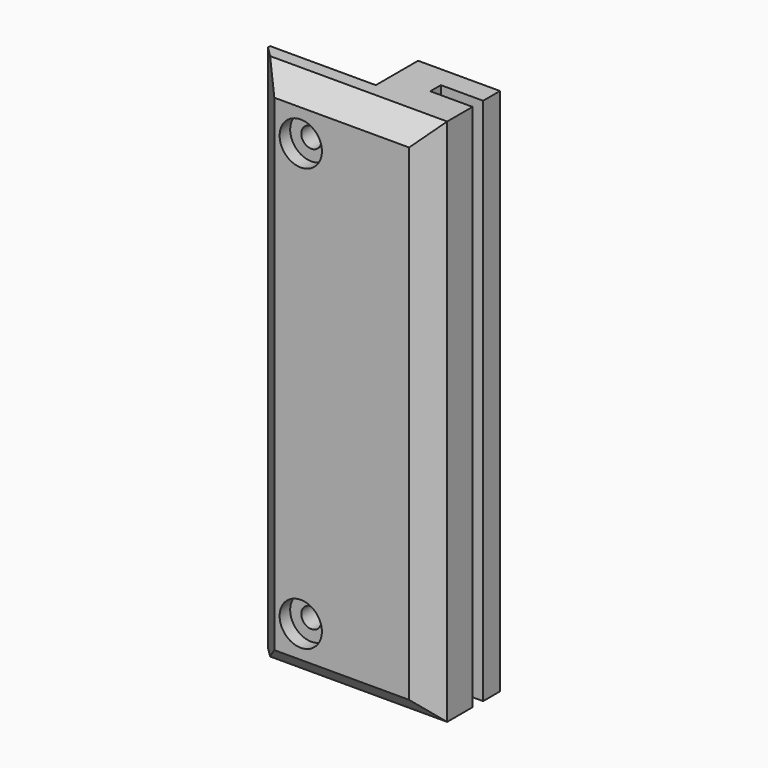
from build123d import *

# Parameters (mm, degrees)
F1_DEPTH = 100
F2_SIZE  = 4
F3_SIZE  = 6
F4_R     = 1.9
F5_DEPTH = 8
F6_R     = 4
F7_DEPTH = 2.5


with BuildPart() as f1:
    # F0 (on Top) → F1 (new body)
    with BuildSketch(Plane.XY):
        Polygon((-14.065653, 8.299918), (-34.065653, 8.299918), (-34.065653, 1.799918), (1.434347, 1.799918), (1.434347, 11.799918), (-6.565653, 11.799918), (-6.565653, 14.299918), (1.434347, 14.299918), (1.434347, 18.299918), (-14.065653, 18.299918), align=None)
    extrude(amount=F1_DEPTH)

    # F2
    f2_edges = [f1.edges().sort_by_distance(p)[0] for p in [
        (-16.315653, 1.799918, 100),
        (-16.315653, 1.799918, 0),
        (1.434347, 1.799918, 50),
    ]]
    chamfer(f2_edges, length=F2_SIZE)

    # F3
    f3_edges = [f1.edges().sort_by_distance(p)[0] for p in [
        (-34.065653, 1.799918, 50),
    ]]
    chamfer(f3_edges, length=F3_SIZE)

    # F4 (on face) → F5 (cut)
    with BuildSketch(Plane.XZ.offset(-1.799918)):
        with Locations((-23.065653, 90)):
            Circle(F4_R)
        with Locations((-23.065653, 10)):
            Circle(F4_R)
    extrude(amount=-F5_DEPTH, mode=Mode.SUBTRACT)

    # F6 (on face) → F7 (cut)
    with BuildSketch(Plane.XZ.offset(-1.799918)):
        with Locations((-23.065653, 90)):
            Circle(F6_R)
        with Locations((-23.065653, 10)):
            Circle(F6_R)
    extrude(amount=-F7_DEPTH, mode=Mode.SUBTRACT)


solid = f1.part
